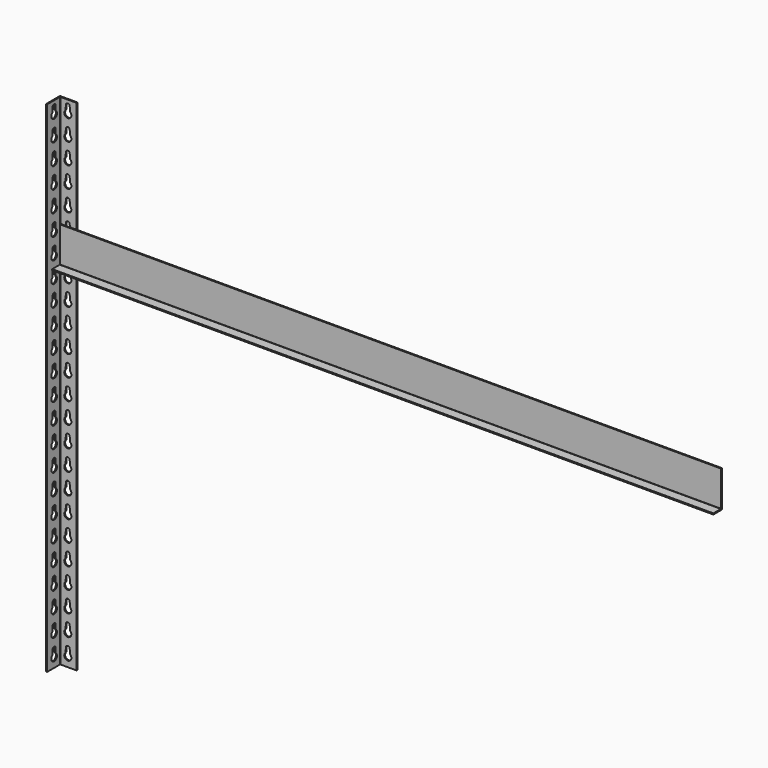
from build123d import *

# Parameters (mm, degrees)
F1_DEPTH  = 914.4
F3_DEPTH  = 2
F5_DEPTH  = 2
F6_W      = 576.2
F6_H      = 66.9
F7_DEPTH  = 2
F8_R      = 3.25
F9_DEPTH  = 2
F10_R     = 6.25
F11_DEPTH = 2
F12_R     = 0.5
F13_R     = 6.25
F14_DEPTH = 2
F15_R     = 0.5
F17_W     = 17.6
F17_H     = 2
F18_DEPTH = 1210
F19_R     = 0.5


with BuildPart() as f1:
    # F0 (on Top) → F1 (new body)
    with BuildSketch(Plane.XY):
        with BuildLine():
            Line((-15.9, -15.9), (-13.9, -15.9))
            Line((-13.9, -15.9), (-13.9, -13.9))
            Line((-13.9, -13.9), (-13.9, 12.9))
            ThreePointArc((-13.9, 12.9), (-13.6071067812, 13.6071067812), (-12.9, 13.9))
            Line((-12.9, 13.9), (13.9, 13.9))
            Line((13.9, 13.9), (15.9, 13.9))
            Line((15.9, 13.9), (15.9, 15.9))
            Line((15.9, 15.9), (-14.9, 15.9))
            ThreePointArc((-14.9, 15.9), (-15.6071067812, 15.6071067812), (-15.9, 14.9))
            Line((-15.9, 14.9), (-15.9, -15.9))
        make_face()
    extrude(amount=F1_DEPTH)

    # F2 (on face) → F3 (cut, through all)
    with BuildSketch(Plane(origin=(-15.9, 0, 0), x_dir=(0, -1, 0), z_dir=(-1, 0, 0))):
        with BuildLine():
            ThreePointArc((-3.649204017, 897.4116132507), (-3.8324656108, 896.6142550198), (-4.3196760487, 895.9569948357))
            ThreePointArc((-4.3196760487, 895.9569948357), (0, 884.6), (4.3196760487, 895.9569948357))
            ThreePointArc((4.3196760487, 895.9569948357), (3.8324656108, 896.6142550198), (3.649204017, 897.4116132507))
            Line((3.649204017, 897.4116132507), (3.5, 904.9))
            ThreePointArc((3.5, 904.9), (0, 908.4), (-3.5, 904.9))
            Line((-3.5, 904.9), (-3.649204017, 897.4116132507))
        make_face()
        with BuildLine():
            Line((3.649204017, 859.4116132507), (3.5, 866.9))
            ThreePointArc((3.5, 866.9), (0, 870.4), (-3.5, 866.9))
            Line((-3.5, 866.9), (-3.649204017, 859.4116132507))
            ThreePointArc((-3.649204017, 859.4116132507), (-3.8324656108, 858.6142550198), (-4.3196760487, 857.9569948357))
            ThreePointArc((-4.3196760487, 857.9569948357), (0, 846.6), (4.3196760487, 857.9569948357))
            ThreePointArc((4.3196760487, 857.9569948357), (3.8324656108, 858.6142550198), (3.649204017, 859.4116132507))
        make_face()
        with BuildLine():
            Line((3.649204017, 821.4116132508), (3.5, 828.9))
            ThreePointArc((3.5, 828.9), (0, 832.4), (-3.5, 828.9))
            Line((-3.5, 828.9), (-3.649204017, 821.4116132508))
            ThreePointArc((-3.649204017, 821.4116132508), (-3.8324656108, 820.6142550198), (-4.3196760487, 819.9569948357))
            ThreePointArc((-4.3196760487, 819.9569948357), (0, 808.6), (4.3196760487, 819.9569948357))
            ThreePointArc((4.3196760487, 819.9569948357), (3.8324656108, 820.6142550198), (3.649204017, 821.4116132508))
        make_face()
        with BuildLine():
            Line((3.649204017, 783.4116132508), (3.5, 790.9))
            ThreePointArc((3.5, 790.9), (0, 794.4), (-3.5, 790.9))
            Line((-3.5, 790.9), (-3.649204017, 783.4116132508))
            ThreePointArc((-3.649204017, 783.4116132508), (-3.8324656108, 782.6142550198), (-4.3196760487, 781.9569948357))
            ThreePointArc((-4.3196760487, 781.9569948357), (0, 770.6), (4.3196760487, 781.9569948357))
            ThreePointArc((4.3196760487, 781.9569948357), (3.8324656108, 782.6142550198), (3.649204017, 783.4116132508))
        make_face()
        with BuildLine():
            Line((3.649204017, 745.4116132508), (3.5, 752.9))
            ThreePointArc((3.5, 752.9), (0, 756.4), (-3.5, 752.9))
            Line((-3.5, 752.9), (-3.649204017, 745.4116132508))
            ThreePointArc((-3.649204017, 745.4116132508), (-3.8324656108, 744.6142550198), (-4.3196760487, 743.9569948357))
            ThreePointArc((-4.3196760487, 743.9569948357), (0, 732.6), (4.3196760487, 743.9569948357))
            ThreePointArc((4.3196760487, 743.9569948357), (3.8324656108, 744.6142550198), (3.649204017, 745.4116132508))
        make_face()
        with BuildLine():
            Line((3.649204017, 707.4116132508), (3.5, 714.9))
            ThreePointArc((3.5, 714.9), (0, 718.4), (-3.5, 714.9))
            Line((-3.5, 714.9), (-3.649204017, 707.4116132508))
            ThreePointArc((-3.649204017, 707.4116132508), (-3.8324656108, 706.6142550198), (-4.3196760487, 705.9569948357))
            ThreePointArc((-4.3196760487, 705.9569948357), (0, 694.6), (4.3196760487, 705.9569948357))
            ThreePointArc((4.3196760487, 705.9569948357), (3.8324656108, 706.6142550198), (3.649204017, 707.4116132508))
        make_face()
        with BuildLine():
            Line((3.649204017, 669.4116132508), (3.5, 676.9))
            ThreePointArc((3.5, 676.9), (0, 680.4), (-3.5, 676.9))
            Line((-3.5, 676.9), (-3.649204017, 669.4116132508))
            ThreePointArc((-3.649204017, 669.4116132508), (-3.8324656108, 668.6142550198), (-4.3196760487, 667.9569948357))
            ThreePointArc((-4.3196760487, 667.9569948357), (0, 656.6), (4.3196760487, 667.9569948357))
            ThreePointArc((4.3196760487, 667.9569948357), (3.8324656108, 668.6142550198), (3.649204017, 669.4116132508))
        make_face()
        with BuildLine():
            Line((3.649204017, 631.4116132508), (3.5, 638.9))
            ThreePointArc((3.5, 638.9), (0, 642.4), (-3.5, 638.9))
            Line((-3.5, 638.9), (-3.649204017, 631.4116132508))
            ThreePointArc((-3.649204017, 631.4116132508), (-3.8324656108, 630.6142550198), (-4.3196760487, 629.9569948357))
            ThreePointArc((-4.3196760487, 629.9569948357), (0, 618.6), (4.3196760487, 629.9569948357))
            ThreePointArc((4.3196760487, 629.9569948357), (3.8324656108, 630.6142550198), (3.649204017, 631.4116132508))
        make_face()
        with BuildLine():
            Line((3.649204017, 593.4116132508), (3.5, 600.9))
            ThreePointArc((3.5, 600.9), (0, 604.4), (-3.5, 600.9))
            Line((-3.5, 600.9), (-3.649204017, 593.4116132508))
            ThreePointArc((-3.649204017, 593.4116132508), (-3.8324656108, 592.6142550198), (-4.3196760487, 591.9569948357))
            ThreePointArc((-4.3196760487, 591.9569948357), (0, 580.6), (4.3196760487, 591.9569948357))
            ThreePointArc((4.3196760487, 591.9569948357), (3.8324656108, 592.6142550198), (3.649204017, 593.4116132508))
        make_face()
        with BuildLine():
            Line((3.649204017, 555.4116132508), (3.5, 562.9))
            ThreePointArc((3.5, 562.9), (0, 566.4), (-3.5, 562.9))
            Line((-3.5, 562.9), (-3.649204017, 555.4116132508))
            ThreePointArc((-3.649204017, 555.4116132508), (-3.8324656108, 554.6142550198), (-4.3196760487, 553.9569948357))
            ThreePointArc((-4.3196760487, 553.9569948357), (0, 542.6), (4.3196760487, 553.9569948357))
            ThreePointArc((4.3196760487, 553.9569948357), (3.8324656108, 554.6142550198), (3.649204017, 555.4116132508))
        make_face()
        with BuildLine():
            Line((3.649204017, 517.4116132508), (3.5, 524.9))
            ThreePointArc((3.5, 524.9), (0, 528.4), (-3.5, 524.9))
            Line((-3.5, 524.9), (-3.649204017, 517.4116132508))
            ThreePointArc((-3.649204017, 517.4116132508), (-3.8324656108, 516.6142550198), (-4.3196760487, 515.9569948357))
            ThreePointArc((-4.3196760487, 515.9569948357), (0, 504.6), (4.3196760487, 515.9569948357))
            ThreePointArc((4.3196760487, 515.9569948357), (3.8324656108, 516.6142550198), (3.649204017, 517.4116132508))
        make_face()
        with BuildLine():
            Line((3.649204017, 479.4116132508), (3.5, 486.9))
            ThreePointArc((3.5, 486.9), (0, 490.4), (-3.5, 486.9))
            Line((-3.5, 486.9), (-3.649204017, 479.4116132508))
            ThreePointArc((-3.649204017, 479.4116132508), (-3.8324656108, 478.6142550198), (-4.3196760487, 477.9569948357))
            ThreePointArc((-4.3196760487, 477.9569948357), (0, 466.6), (4.3196760487, 477.9569948357))
            ThreePointArc((4.3196760487, 477.9569948357), (3.8324656108, 478.6142550198), (3.649204017, 479.4116132508))
        make_face()
        with BuildLine():
            Line((3.649204017, 441.4116132508), (3.5, 448.9))
            ThreePointArc((3.5, 448.9), (0, 452.4), (-3.5, 448.9))
            Line((-3.5, 448.9), (-3.649204017, 441.4116132508))
            ThreePointArc((-3.649204017, 441.4116132508), (-3.8324656108, 440.6142550198), (-4.3196760487, 439.9569948357))
            ThreePointArc((-4.3196760487, 439.9569948357), (0, 428.6), (4.3196760487, 439.9569948357))
            ThreePointArc((4.3196760487, 439.9569948357), (3.8324656108, 440.6142550198), (3.649204017, 441.4116132508))
        make_face()
        with BuildLine():
            Line((3.649204017, 403.4116132508), (3.5, 410.9))
            ThreePointArc((3.5, 410.9), (0, 414.4), (-3.5, 410.9))
            Line((-3.5, 410.9), (-3.649204017, 403.4116132508))
            ThreePointArc((-3.649204017, 403.4116132508), (-3.8324656108, 402.6142550198), (-4.3196760487, 401.9569948357))
            ThreePointArc((-4.3196760487, 401.9569948357), (0, 390.6), (4.3196760487, 401.9569948357))
            ThreePointArc((4.3196760487, 401.9569948357), (3.8324656108, 402.6142550198), (3.649204017, 403.4116132508))
        make_face()
        with BuildLine():
            Line((3.649204017, 365.4116132508), (3.5, 372.9))
            ThreePointArc((3.5, 372.9), (0, 376.4), (-3.5, 372.9))
            Line((-3.5, 372.9), (-3.649204017, 365.4116132508))
            ThreePointArc((-3.649204017, 365.4116132508), (-3.8324656108, 364.6142550198), (-4.3196760487, 363.9569948357))
            ThreePointArc((-4.3196760487, 363.9569948357), (0, 352.6), (4.3196760487, 363.9569948357))
            ThreePointArc((4.3196760487, 363.9569948357), (3.8324656108, 364.6142550198), (3.649204017, 365.4116132508))
        make_face()
        with BuildLine():
            Line((3.649204017, 327.4116132508), (3.5, 334.9))
            ThreePointArc((3.5, 334.9), (0, 338.4), (-3.5, 334.9))
            Line((-3.5, 334.9), (-3.649204017, 327.4116132508))
            ThreePointArc((-3.649204017, 327.4116132508), (-3.8324656108, 326.6142550198), (-4.3196760487, 325.9569948357))
            ThreePointArc((-4.3196760487, 325.9569948357), (0, 314.6), (4.3196760487, 325.9569948357))
            ThreePointArc((4.3196760487, 325.9569948357), (3.8324656108, 326.6142550198), (3.649204017, 327.4116132508))
        make_face()
        with BuildLine():
            Line((3.649204017, 289.4116132508), (3.5, 296.9))
            ThreePointArc((3.5, 296.9), (0, 300.4), (-3.5, 296.9))
            Line((-3.5, 296.9), (-3.649204017, 289.4116132508))
            ThreePointArc((-3.649204017, 289.4116132508), (-3.8324656108, 288.6142550198), (-4.3196760487, 287.9569948357))
            ThreePointArc((-4.3196760487, 287.9569948357), (0, 276.6), (4.3196760487, 287.9569948357))
            ThreePointArc((4.3196760487, 287.9569948357), (3.8324656108, 288.6142550198), (3.649204017, 289.4116132508))
        make_face()
        with BuildLine():
            Line((3.649204017, 251.4116132508), (3.5, 258.9))
            ThreePointArc((3.5, 258.9), (0, 262.4), (-3.5, 258.9))
            Line((-3.5, 258.9), (-3.649204017, 251.4116132508))
            ThreePointArc((-3.649204017, 251.4116132508), (-3.8324656108, 250.6142550198), (-4.3196760487, 249.9569948357))
            ThreePointArc((-4.3196760487, 249.9569948357), (0, 238.6), (4.3196760487, 249.9569948357))
            ThreePointArc((4.3196760487, 249.9569948357), (3.8324656108, 250.6142550198), (3.649204017, 251.4116132508))
        make_face()
        with BuildLine():
            Line((3.649204017, 213.4116132508), (3.5, 220.9))
            ThreePointArc((3.5, 220.9), (0, 224.4), (-3.5, 220.9))
            Line((-3.5, 220.9), (-3.649204017, 213.4116132508))
            ThreePointArc((-3.649204017, 213.4116132508), (-3.8324656108, 212.6142550198), (-4.3196760487, 211.9569948357))
            ThreePointArc((-4.3196760487, 211.9569948357), (0, 200.6), (4.3196760487, 211.9569948357))
            ThreePointArc((4.3196760487, 211.9569948357), (3.8324656108, 212.6142550198), (3.649204017, 213.4116132508))
        make_face()
        with BuildLine():
            Line((3.649204017, 175.4116132508), (3.5, 182.9))
            ThreePointArc((3.5, 182.9), (0, 186.4), (-3.5, 182.9))
            Line((-3.5, 182.9), (-3.649204017, 175.4116132508))
            ThreePointArc((-3.649204017, 175.4116132508), (-3.8324656108, 174.6142550198), (-4.3196760487, 173.9569948357))
            ThreePointArc((-4.3196760487, 173.9569948357), (0, 162.6), (4.3196760487, 173.9569948357))
            ThreePointArc((4.3196760487, 173.9569948357), (3.8324656108, 174.6142550198), (3.649204017, 175.4116132508))
        make_face()
        with BuildLine():
            Line((3.649204017, 137.4116132508), (3.5, 144.9))
            ThreePointArc((3.5, 144.9), (0, 148.4), (-3.5, 144.9))
            Line((-3.5, 144.9), (-3.649204017, 137.4116132508))
            ThreePointArc((-3.649204017, 137.4116132508), (-3.8324656108, 136.6142550198), (-4.3196760487, 135.9569948357))
            ThreePointArc((-4.3196760487, 135.9569948357), (0, 124.6), (4.3196760487, 135.9569948357))
            ThreePointArc((4.3196760487, 135.9569948357), (3.8324656108, 136.6142550198), (3.649204017, 137.4116132508))
        make_face()
        with BuildLine():
            Line((3.649204017, 99.4116132508), (3.5, 106.9))
            ThreePointArc((3.5, 106.9), (0, 110.4), (-3.5, 106.9))
            Line((-3.5, 106.9), (-3.649204017, 99.4116132508))
            ThreePointArc((-3.649204017, 99.4116132508), (-3.8324656108, 98.6142550198), (-4.3196760487, 97.9569948357))
            ThreePointArc((-4.3196760487, 97.9569948357), (0, 86.6), (4.3196760487, 97.9569948357))
            ThreePointArc((4.3196760487, 97.9569948357), (3.8324656108, 98.6142550198), (3.649204017, 99.4116132508))
        make_face()
        with BuildLine():
            Line((3.649204017, 61.4116132508), (3.5, 68.9))
            ThreePointArc((3.5, 68.9), (0, 72.4), (-3.5, 68.9))
            Line((-3.5, 68.9), (-3.649204017, 61.4116132508))
            ThreePointArc((-3.649204017, 61.4116132508), (-3.8324656108, 60.6142550198), (-4.3196760487, 59.9569948357))
            ThreePointArc((-4.3196760487, 59.9569948357), (0, 48.6), (4.3196760487, 59.9569948357))
            ThreePointArc((4.3196760487, 59.9569948357), (3.8324656108, 60.6142550198), (3.649204017, 61.4116132508))
        make_face()
        with BuildLine():
            Line((3.649204017, 23.4116132508), (3.5, 30.9))
            ThreePointArc((3.5, 30.9), (0, 34.4), (-3.5, 30.9))
            Line((-3.5, 30.9), (-3.649204017, 23.4116132508))
            ThreePointArc((-3.649204017, 23.4116132508), (-3.8324656108, 22.6142550198), (-4.3196760487, 21.9569948357))
            ThreePointArc((-4.3196760487, 21.9569948357), (0, 10.6), (4.3196760487, 21.9569948357))
            ThreePointArc((4.3196760487, 21.9569948357), (3.8324656108, 22.6142550198), (3.649204017, 23.4116132508))
        make_face()
    extrude(amount=-F3_DEPTH, mode=Mode.SUBTRACT)

    # F4 (on face) → F5 (cut, through all)
    with BuildSketch(Plane(origin=(0, 15.9, 0), x_dir=(-1, 0, 0), z_dir=(0, 1, 0))):
        with BuildLine():
            Line((4.0335393552, 896.9576643197), (3.5, 904.9))
            ThreePointArc((3.5, 904.9), (0, 908.4), (-3.5, 904.9))
            Line((-3.5, 904.9), (-4.0335393552, 896.9576643197))
            ThreePointArc((-4.0335393552, 896.9576643197), (-4.2067042662, 896.2676489227), (-4.6104437842, 895.6819000549))
            ThreePointArc((-4.6104437842, 895.6819000549), (0, 884.6), (4.6104437842, 895.6819000549))
            ThreePointArc((4.6104437842, 895.6819000549), (4.2067042662, 896.2676489227), (4.0335393552, 896.9576643197))
        make_face()
        with BuildLine():
            Line((4.0335393552, 858.9576643197), (3.5, 866.9))
            ThreePointArc((3.5, 866.9), (0, 870.4), (-3.5, 866.9))
            Line((-3.5, 866.9), (-4.0335393552, 858.9576643197))
            ThreePointArc((-4.0335393552, 858.9576643197), (-4.2067042662, 858.2676489227), (-4.6104437842, 857.6819000549))
            ThreePointArc((-4.6104437842, 857.6819000549), (0, 846.6), (4.6104437842, 857.6819000549))
            ThreePointArc((4.6104437842, 857.6819000549), (4.2067042662, 858.2676489227), (4.0335393552, 858.9576643197))
        make_face()
        with BuildLine():
            Line((4.0335393552, 820.9576643197), (3.5, 828.9))
            ThreePointArc((3.5, 828.9), (0, 832.4), (-3.5, 828.9))
            Line((-3.5, 828.9), (-4.0335393552, 820.9576643197))
            ThreePointArc((-4.0335393552, 820.9576643197), (-4.2067042662, 820.2676489227), (-4.6104437842, 819.6819000549))
            ThreePointArc((-4.6104437842, 819.6819000549), (0, 808.6), (4.6104437842, 819.6819000549))
            ThreePointArc((4.6104437842, 819.6819000549), (4.2067042662, 820.2676489227), (4.0335393552, 820.9576643197))
        make_face()
        with BuildLine():
            Line((4.0335393552, 782.9576643197), (3.5, 790.9))
            ThreePointArc((3.5, 790.9), (0, 794.4), (-3.5, 790.9))
            Line((-3.5, 790.9), (-4.0335393552, 782.9576643197))
            ThreePointArc((-4.0335393552, 782.9576643197), (-4.2067042662, 782.2676489227), (-4.6104437842, 781.6819000549))
            ThreePointArc((-4.6104437842, 781.6819000549), (0, 770.6), (4.6104437842, 781.6819000549))
            ThreePointArc((4.6104437842, 781.6819000549), (4.2067042662, 782.2676489227), (4.0335393552, 782.9576643197))
        make_face()
        with BuildLine():
            Line((4.0335393552, 744.9576643197), (3.5, 752.9))
            ThreePointArc((3.5, 752.9), (0, 756.4), (-3.5, 752.9))
            Line((-3.5, 752.9), (-4.0335393552, 744.9576643197))
            ThreePointArc((-4.0335393552, 744.9576643197), (-4.2067042662, 744.2676489227), (-4.6104437842, 743.6819000549))
            ThreePointArc((-4.6104437842, 743.6819000549), (0, 732.6), (4.6104437842, 743.6819000549))
            ThreePointArc((4.6104437842, 743.6819000549), (4.2067042662, 744.2676489227), (4.0335393552, 744.9576643197))
        make_face()
        with BuildLine():
            Line((4.0335393552, 706.9576643197), (3.5, 714.9))
            ThreePointArc((3.5, 714.9), (0, 718.4), (-3.5, 714.9))
            Line((-3.5, 714.9), (-4.0335393552, 706.9576643197))
            ThreePointArc((-4.0335393552, 706.9576643197), (-4.2067042662, 706.2676489227), (-4.6104437842, 705.6819000549))
            ThreePointArc((-4.6104437842, 705.6819000549), (0, 694.6), (4.6104437842, 705.6819000549))
            ThreePointArc((4.6104437842, 705.6819000549), (4.2067042662, 706.2676489227), (4.0335393552, 706.9576643197))
        make_face()
        with BuildLine():
            Line((4.0335393552, 668.9576643197), (3.5, 676.9))
            ThreePointArc((3.5, 676.9), (0, 680.4), (-3.5, 676.9))
            Line((-3.5, 676.9), (-4.0335393552, 668.9576643197))
            ThreePointArc((-4.0335393552, 668.9576643197), (-4.2067042662, 668.2676489227), (-4.6104437842, 667.6819000549))
            ThreePointArc((-4.6104437842, 667.6819000549), (0, 656.6), (4.6104437842, 667.6819000549))
            ThreePointArc((4.6104437842, 667.6819000549), (4.2067042662, 668.2676489227), (4.0335393552, 668.9576643197))
        make_face()
        with BuildLine():
            Line((4.0335393552, 630.9576643197), (3.5, 638.9))
            ThreePointArc((3.5, 638.9), (0, 642.4), (-3.5, 638.9))
            Line((-3.5, 638.9), (-4.0335393552, 630.9576643197))
            ThreePointArc((-4.0335393552, 630.9576643197), (-4.2067042662, 630.2676489227), (-4.6104437842, 629.6819000549))
            ThreePointArc((-4.6104437842, 629.6819000549), (0, 618.6), (4.6104437842, 629.6819000549))
            ThreePointArc((4.6104437842, 629.6819000549), (4.2067042662, 630.2676489227), (4.0335393552, 630.9576643197))
        make_face()
        with BuildLine():
            Line((4.0335393552, 592.9576643197), (3.5, 600.9))
            ThreePointArc((3.5, 600.9), (0, 604.4), (-3.5, 600.9))
            Line((-3.5, 600.9), (-4.0335393552, 592.9576643197))
            ThreePointArc((-4.0335393552, 592.9576643197), (-4.2067042662, 592.2676489227), (-4.6104437842, 591.6819000549))
            ThreePointArc((-4.6104437842, 591.6819000549), (0, 580.6), (4.6104437842, 591.6819000549))
            ThreePointArc((4.6104437842, 591.6819000549), (4.2067042662, 592.2676489227), (4.0335393552, 592.9576643197))
        make_face()
        with BuildLine():
            Line((4.0335393552, 554.9576643197), (3.5, 562.9))
            ThreePointArc((3.5, 562.9), (0, 566.4), (-3.5, 562.9))
            Line((-3.5, 562.9), (-4.0335393552, 554.9576643197))
            ThreePointArc((-4.0335393552, 554.9576643197), (-4.2067042662, 554.2676489227), (-4.6104437842, 553.6819000549))
            ThreePointArc((-4.6104437842, 553.6819000549), (0, 542.6), (4.6104437842, 553.6819000549))
            ThreePointArc((4.6104437842, 553.6819000549), (4.2067042662, 554.2676489227), (4.0335393552, 554.9576643197))
        make_face()
        with BuildLine():
            Line((4.0335393552, 516.9576643197), (3.5, 524.9))
            ThreePointArc((3.5, 524.9), (0, 528.4), (-3.5, 524.9))
            Line((-3.5, 524.9), (-4.0335393552, 516.9576643197))
            ThreePointArc((-4.0335393552, 516.9576643197), (-4.2067042662, 516.2676489227), (-4.6104437842, 515.6819000549))
            ThreePointArc((-4.6104437842, 515.6819000549), (0, 504.6), (4.6104437842, 515.6819000549))
            ThreePointArc((4.6104437842, 515.6819000549), (4.2067042662, 516.2676489227), (4.0335393552, 516.9576643197))
        make_face()
        with BuildLine():
            Line((4.0335393552, 478.9576643197), (3.5, 486.9))
            ThreePointArc((3.5, 486.9), (0, 490.4), (-3.5, 486.9))
            Line((-3.5, 486.9), (-4.0335393552, 478.9576643197))
            ThreePointArc((-4.0335393552, 478.9576643197), (-4.2067042662, 478.2676489227), (-4.6104437842, 477.6819000549))
            ThreePointArc((-4.6104437842, 477.6819000549), (0, 466.6), (4.6104437842, 477.6819000549))
            ThreePointArc((4.6104437842, 477.6819000549), (4.2067042662, 478.2676489227), (4.0335393552, 478.9576643197))
        make_face()
        with BuildLine():
            Line((4.0335393552, 440.9576643197), (3.5, 448.9))
            ThreePointArc((3.5, 448.9), (0, 452.4), (-3.5, 448.9))
            Line((-3.5, 448.9), (-4.0335393552, 440.9576643197))
            ThreePointArc((-4.0335393552, 440.9576643197), (-4.2067042662, 440.2676489227), (-4.6104437842, 439.6819000549))
            ThreePointArc((-4.6104437842, 439.6819000549), (0, 428.6), (4.6104437842, 439.6819000549))
            ThreePointArc((4.6104437842, 439.6819000549), (4.2067042662, 440.2676489227), (4.0335393552, 440.9576643197))
        make_face()
        with BuildLine():
            Line((4.0335393552, 402.9576643197), (3.5, 410.9))
            ThreePointArc((3.5, 410.9), (0, 414.4), (-3.5, 410.9))
            Line((-3.5, 410.9), (-4.0335393552, 402.9576643197))
            ThreePointArc((-4.0335393552, 402.9576643197), (-4.2067042662, 402.2676489227), (-4.6104437842, 401.6819000549))
            ThreePointArc((-4.6104437842, 401.6819000549), (0, 390.6), (4.6104437842, 401.6819000549))
            ThreePointArc((4.6104437842, 401.6819000549), (4.2067042662, 402.2676489227), (4.0335393552, 402.9576643197))
        make_face()
        with BuildLine():
            Line((4.0335393552, 364.9576643197), (3.5, 372.9))
            ThreePointArc((3.5, 372.9), (0, 376.4), (-3.5, 372.9))
            Line((-3.5, 372.9), (-4.0335393552, 364.9576643197))
            ThreePointArc((-4.0335393552, 364.9576643197), (-4.2067042662, 364.2676489227), (-4.6104437842, 363.6819000549))
            ThreePointArc((-4.6104437842, 363.6819000549), (0, 352.6), (4.6104437842, 363.6819000549))
            ThreePointArc((4.6104437842, 363.6819000549), (4.2067042662, 364.2676489227), (4.0335393552, 364.9576643197))
        make_face()
        with BuildLine():
            Line((4.0335393552, 326.9576643197), (3.5, 334.9))
            ThreePointArc((3.5, 334.9), (0, 338.4), (-3.5, 334.9))
            Line((-3.5, 334.9), (-4.0335393552, 326.9576643197))
            ThreePointArc((-4.0335393552, 326.9576643197), (-4.2067042662, 326.2676489227), (-4.6104437842, 325.6819000549))
            ThreePointArc((-4.6104437842, 325.6819000549), (0, 314.6), (4.6104437842, 325.6819000549))
            ThreePointArc((4.6104437842, 325.6819000549), (4.2067042662, 326.2676489227), (4.0335393552, 326.9576643197))
        make_face()
        with BuildLine():
            Line((4.0335393552, 288.9576643197), (3.5, 296.9))
            ThreePointArc((3.5, 296.9), (0, 300.4), (-3.5, 296.9))
            Line((-3.5, 296.9), (-4.0335393552, 288.9576643197))
            ThreePointArc((-4.0335393552, 288.9576643197), (-4.2067042662, 288.2676489227), (-4.6104437842, 287.6819000549))
            ThreePointArc((-4.6104437842, 287.6819000549), (0, 276.6), (4.6104437842, 287.6819000549))
            ThreePointArc((4.6104437842, 287.6819000549), (4.2067042662, 288.2676489227), (4.0335393552, 288.9576643197))
        make_face()
        with BuildLine():
            Line((4.0335393552, 250.9576643197), (3.5, 258.9))
            ThreePointArc((3.5, 258.9), (0, 262.4), (-3.5, 258.9))
            Line((-3.5, 258.9), (-4.0335393552, 250.9576643197))
            ThreePointArc((-4.0335393552, 250.9576643197), (-4.2067042662, 250.2676489227), (-4.6104437842, 249.6819000549))
            ThreePointArc((-4.6104437842, 249.6819000549), (0, 238.6), (4.6104437842, 249.6819000549))
            ThreePointArc((4.6104437842, 249.6819000549), (4.2067042662, 250.2676489227), (4.0335393552, 250.9576643197))
        make_face()
        with BuildLine():
            Line((4.0335393552, 212.9576643197), (3.5, 220.9))
            ThreePointArc((3.5, 220.9), (0, 224.4), (-3.5, 220.9))
            Line((-3.5, 220.9), (-4.0335393552, 212.9576643197))
            ThreePointArc((-4.0335393552, 212.9576643197), (-4.2067042662, 212.2676489227), (-4.6104437842, 211.6819000549))
            ThreePointArc((-4.6104437842, 211.6819000549), (0, 200.6), (4.6104437842, 211.6819000549))
            ThreePointArc((4.6104437842, 211.6819000549), (4.2067042662, 212.2676489227), (4.0335393552, 212.9576643197))
        make_face()
        with BuildLine():
            Line((4.0335393552, 174.9576643197), (3.5, 182.9))
            ThreePointArc((3.5, 182.9), (0, 186.4), (-3.5, 182.9))
            Line((-3.5, 182.9), (-4.0335393552, 174.9576643197))
            ThreePointArc((-4.0335393552, 174.9576643197), (-4.2067042662, 174.2676489227), (-4.6104437842, 173.6819000549))
            ThreePointArc((-4.6104437842, 173.6819000549), (0, 162.6), (4.6104437842, 173.6819000549))
            ThreePointArc((4.6104437842, 173.6819000549), (4.2067042662, 174.2676489227), (4.0335393552, 174.9576643197))
        make_face()
        with BuildLine():
            Line((4.0335393552, 136.9576643197), (3.5, 144.9))
            ThreePointArc((3.5, 144.9), (0, 148.4), (-3.5, 144.9))
            Line((-3.5, 144.9), (-4.0335393552, 136.9576643197))
            ThreePointArc((-4.0335393552, 136.9576643197), (-4.2067042662, 136.2676489227), (-4.6104437842, 135.6819000549))
            ThreePointArc((-4.6104437842, 135.6819000549), (0, 124.6), (4.6104437842, 135.6819000549))
            ThreePointArc((4.6104437842, 135.6819000549), (4.2067042662, 136.2676489227), (4.0335393552, 136.9576643197))
        make_face()
        with BuildLine():
            Line((4.0335393552, 98.9576643197), (3.5, 106.9))
            ThreePointArc((3.5, 106.9), (0, 110.4), (-3.5, 106.9))
            Line((-3.5, 106.9), (-4.0335393552, 98.9576643197))
            ThreePointArc((-4.0335393552, 98.9576643197), (-4.2067042662, 98.2676489227), (-4.6104437842, 97.6819000549))
            ThreePointArc((-4.6104437842, 97.6819000549), (0, 86.6), (4.6104437842, 97.6819000549))
            ThreePointArc((4.6104437842, 97.6819000549), (4.2067042662, 98.2676489227), (4.0335393552, 98.9576643197))
        make_face()
        with BuildLine():
            Line((4.0335393552, 60.9576643197), (3.5, 68.9))
            ThreePointArc((3.5, 68.9), (0, 72.4), (-3.5, 68.9))
            Line((-3.5, 68.9), (-4.0335393552, 60.9576643197))
            ThreePointArc((-4.0335393552, 60.9576643197), (-4.2067042662, 60.2676489227), (-4.6104437842, 59.6819000549))
            ThreePointArc((-4.6104437842, 59.6819000549), (0, 48.6), (4.6104437842, 59.6819000549))
            ThreePointArc((4.6104437842, 59.6819000549), (4.2067042662, 60.2676489227), (4.0335393552, 60.9576643197))
        make_face()
        with BuildLine():
            Line((4.0335393552, 22.9576643197), (3.5, 30.9))
            ThreePointArc((3.5, 30.9), (0, 34.4), (-3.5, 30.9))
            Line((-3.5, 30.9), (-4.0335393552, 22.9576643197))
            ThreePointArc((-4.0335393552, 22.9576643197), (-4.2067042662, 22.2676489227), (-4.6104437842, 21.6819000549))
            ThreePointArc((-4.6104437842, 21.6819000549), (0, 10.6), (4.6104437842, 21.6819000549))
            ThreePointArc((4.6104437842, 21.6819000549), (4.2067042662, 22.2676489227), (4.0335393552, 22.9576643197))
        make_face()
    extrude(amount=-F5_DEPTH, mode=Mode.SUBTRACT)


with BuildPart() as f7:
    # F6 (on face) → F7 (new body)
    with BuildSketch(Plane.XZ.offset(-13.9)):
        with Locations((304, 676.65)):
            Rectangle(F6_W, F6_H)
        with BuildLine():
            ThreePointArc((4.0335393552, 706.9576643197), (4.2067042662, 706.2676489227), (4.6104437842, 705.6819000549))
            ThreePointArc((4.6104437841, 705.6819000549), (-1e-10, 694.6), (-4.6104437842, 705.6819000549))
            ThreePointArc((-4.6104437842, 705.6819000549), (-4.2067042662, 706.2676489227), (-4.0335393552, 706.9576643197))
            Line((-4.0335393552, 706.9576643197), (-3.82244783, 710.1))
            Line((-3.82244783, 710.1), (-12.9, 710.1))
            Line((-12.9, 710.1), (-12.9, 643.2))
            Line((-12.9, 643.2), (15.9, 643.2))
            Line((15.9, 643.2), (15.9, 710.1))
            Line((15.9, 710.1), (3.82244783, 710.1))
            Line((3.82244783, 710.1), (4.0335393552, 706.9576643197))
        make_face()
        with BuildLine():
            ThreePointArc((4.0335393552, 668.9576643197), (4.2067042662, 668.2676489227), (4.6104437842, 667.6819000549))
            ThreePointArc((4.6104437841, 667.6819000549), (-1e-10, 656.6), (-4.6104437842, 667.6819000549))
            ThreePointArc((-4.6104437842, 667.6819000549), (-4.2067042662, 668.2676489227), (-4.0335393552, 668.9576643197))
            Line((-4.0335393552, 668.9576643197), (-3.5, 676.9))
            ThreePointArc((-3.5, 676.9), (0, 680.4), (3.5, 676.9))
            Line((3.5, 676.9), (4.0335393552, 668.9576643197))
        make_face(mode=Mode.SUBTRACT)
        with BuildLine():
            ThreePointArc((-4.6104437842, 667.6819000549), (-1e-10, 656.6), (4.6104437841, 667.6819000549))
            ThreePointArc((4.6104437841, 667.6819000549), (0, 669.6), (-4.6104437842, 667.6819000549))
        make_face()
        with BuildLine():
            ThreePointArc((-4.6104437842, 705.6819000549), (-1e-10, 694.6), (4.6104437841, 705.6819000549))
            ThreePointArc((4.6104437841, 705.6819000549), (0, 707.6), (-4.6104437842, 705.6819000549))
        make_face()
        with BuildLine():
            ThreePointArc((-4.6104437842, 667.6819000549), (0, 669.6), (4.6104437841, 667.6819000549))
            ThreePointArc((4.6104437842, 667.6819000549), (4.2067042662, 668.2676489227), (4.0335393552, 668.9576643197))
            Line((4.0335393552, 668.9576643197), (3.5, 676.9))
            ThreePointArc((3.5, 676.9), (0, 680.4), (-3.5, 676.9))
            Line((-3.5, 676.9), (-4.0335393552, 668.9576643197))
            ThreePointArc((-4.0335393552, 668.9576643197), (-4.2067042662, 668.2676489227), (-4.6104437842, 667.6819000549))
        make_face()
        with BuildLine():
            ThreePointArc((-4.6104437842, 705.6819000549), (0, 707.6), (4.6104437841, 705.6819000549))
            ThreePointArc((4.6104437842, 705.6819000549), (4.2067042662, 706.2676489227), (4.0335393552, 706.9576643197))
            Line((4.0335393552, 706.9576643197), (3.82244783, 710.1))
            Line((3.82244783, 710.1), (-3.82244783, 710.1))
            Line((-3.82244783, 710.1), (-4.0335393552, 706.9576643197))
            ThreePointArc((-4.0335393552, 706.9576643197), (-4.2067042662, 706.2676489227), (-4.6104437842, 705.6819000549))
        make_face()
    extrude(amount=F7_DEPTH)

    # F8 (on face) → F9 (join)
    with BuildSketch(Plane(origin=(0, 13.9, 0), x_dir=(-1, 0, 0), z_dir=(0, 1, 0))):
        with Locations((0, 663.1)):
            Circle(F8_R)
        with Locations((0, 701.1)):
            Circle(F8_R)
    extrude(amount=F9_DEPTH)

    # F10 (on face) → F11 (join)
    with BuildSketch(Plane(origin=(0, 15.9, 0), x_dir=(-1, 0, 0), z_dir=(0, 1, 0))):
        with Locations((0, 663.1)):
            Circle(F10_R)
    extrude(amount=F11_DEPTH)

    # F12
    f12_edges = [f7.edges().sort_by_distance(p)[0] for p in [
        (6.25, 17.9, 663.1),
    ]]
    fillet(f12_edges, radius=F12_R)

    # F13 (on face) → F14 (join)
    with BuildSketch(Plane(origin=(0, 15.9, 0), x_dir=(-1, 0, 0), z_dir=(0, 1, 0))):
        with Locations((0, 701.1)):
            Circle(F13_R)
    extrude(amount=F14_DEPTH)

    # F15
    f15_edges = [f7.edges().sort_by_distance(p)[0] for p in [
        (6.25, 17.9, 701.1),
    ]]
    fillet(f15_edges, radius=F15_R)

    # F16: F7 across face


with BuildPart() as f7_1:
    add(f7.part)
    add(f7.part.mirror(Plane(origin=(592.1, 12.9, 676.65), x_dir=(0, 1, 0), z_dir=(1, 0, 0))))

    # F17 (on face) → F18 (join)
    with BuildSketch(Plane(origin=(-12.9, 0, 0), x_dir=(0, -1, 0), z_dir=(-1, 0, 0))):
        with Locations((-3.1, 644.2)):
            Rectangle(F17_W, F17_H)
    extrude(amount=-F18_DEPTH)

    # F19
    f19_edges = [f7_1.edges().sort_by_distance(p)[0] for p in [
        (592.1, 13.9, 643.2),
        (592.1, 11.9, 645.2),
    ]]
    fillet(f19_edges, radius=F19_R)


solid = Compound([f1.part, f7_1.part])
